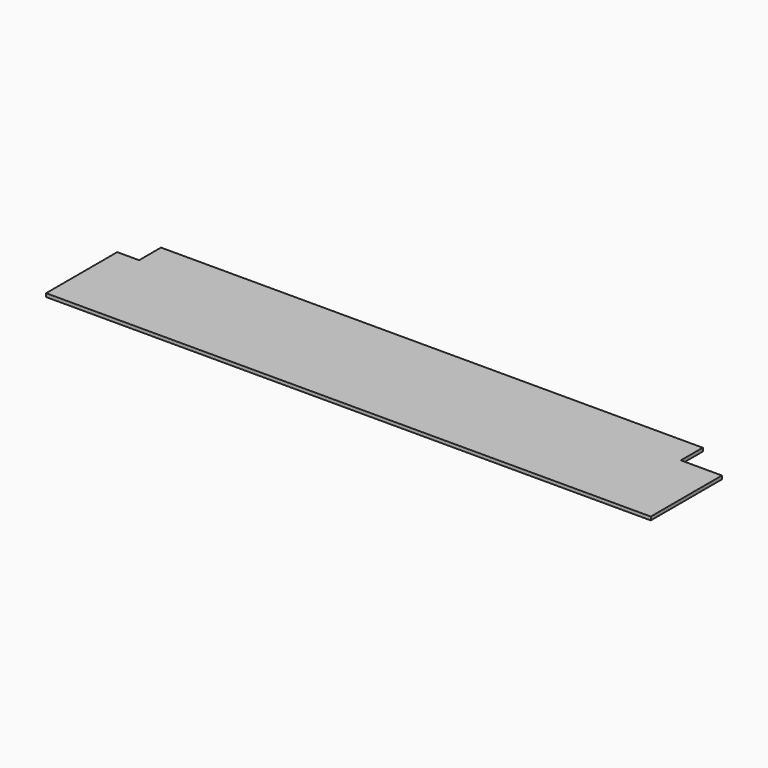
from build123d import *

# Parameters (mm, degrees)
F0_W     = 53.975
F0_H     = 1.5875
F1_DEPTH = 280.67
F2_W     = 10.16
F2_H     = 12.7
F2_W_2   = 19.05
F3_DEPTH = 25.4


with BuildPart() as f1:
    # F0 (on Right) → F1 (new body)
    with BuildSketch(Plane.YZ):
        with Locations((-26.9875, 0.79375)):
            Rectangle(F0_W, F0_H)
    extrude(amount=F1_DEPTH)

    # F2 (on face) → F3 (cut)
    with BuildSketch(Plane.XY.offset(1.5875)):
        with Locations((5.08, -6.35)):
            Rectangle(F2_W, F2_H)
        with Locations((271.145, -6.35)):
            Rectangle(F2_W_2, F2_H)
    extrude(amount=-F3_DEPTH, mode=Mode.SUBTRACT)


solid = f1.part
